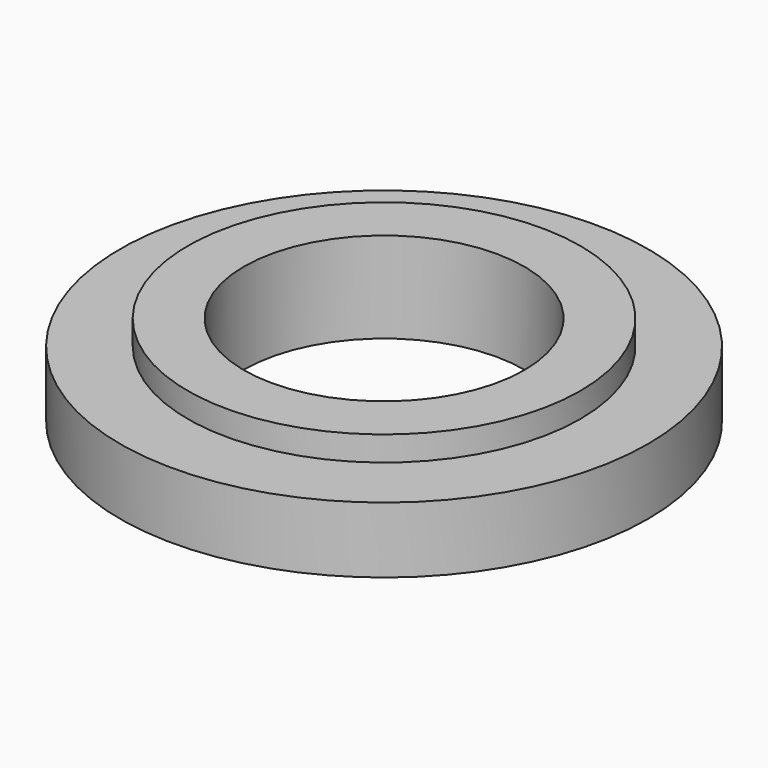
from build123d import *

# Parameters (mm, degrees)
SKETCH001_R      = 8
SKETCH001_R_2    = 4.25
EXTRUDE001_DEPTH = 2
SKETCH_R         = 5.95
SKETCH_R_2       = 4.25
EXTRUDE_DEPTH    = 2.75


with BuildPart() as extrude001:
    # Sketch001 → Extrude001 (new body)
    with BuildSketch(Plane.XY):
        Circle(SKETCH001_R)
        Circle(SKETCH001_R_2, mode=Mode.SUBTRACT)
    extrude(amount=EXTRUDE001_DEPTH)


with BuildPart() as fusion:
    # Sketch → Extrude (new body)
    with BuildSketch(Plane.XY):
        Circle(SKETCH_R)
        Circle(SKETCH_R_2, mode=Mode.SUBTRACT)
    extrude(amount=EXTRUDE_DEPTH)

    # Fusion: union Extrude001
    add(extrude001.part)


solid = fusion.part
